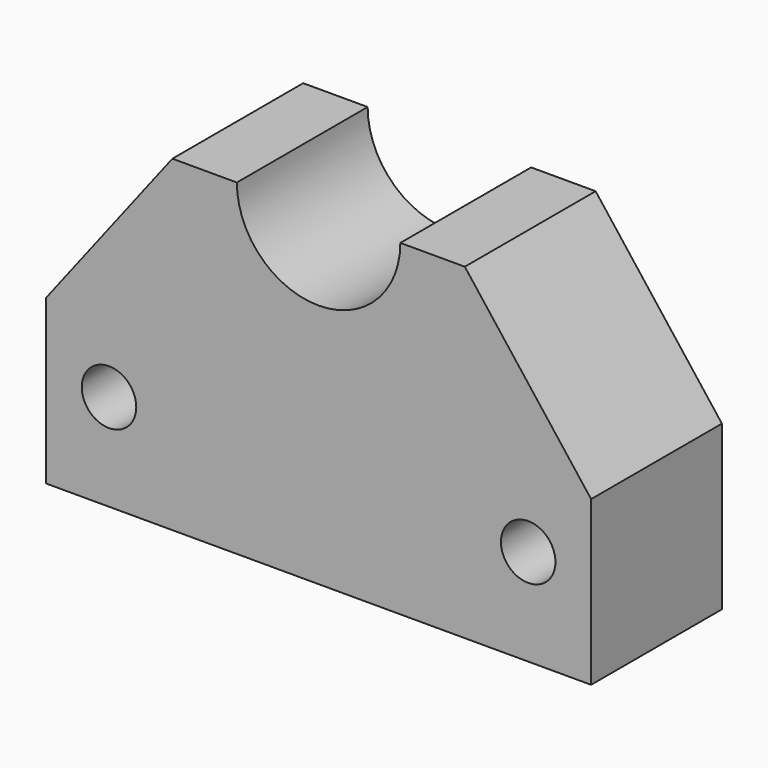
from build123d import *

# Parameters (mm, degrees)
F0_R     = 3.175
F1_DEPTH = 9.525


with BuildPart() as f1:
    # F0 (on Front) → F1 (new body, symmetric)
    with BuildSketch(Plane.XZ):
        with BuildLine():
            Line((-9.525, 19.05), (-17.036222, 19.05))
            Line((-17.036222, 19.05), (-31.75, 0))
            Line((-31.75, 0), (-31.75, -19.05))
            Line((-31.75, -19.05), (31.75, -19.05))
            Line((31.75, -19.05), (31.75, 0))
            Line((31.75, 0), (17.036222, 19.05))
            Line((17.036222, 19.05), (9.525, 19.05))
            ThreePointArc((9.525, 19.05), (0, 9.525), (-9.525, 19.05))
        make_face()
        with Locations((-24.418587, -7.808267)):
            Circle(F0_R, mode=Mode.SUBTRACT)
        with Locations((24.418587, -7.808267)):
            Circle(F0_R, mode=Mode.SUBTRACT)
    extrude(amount=F1_DEPTH, both=True)


with BuildPart() as f2_1:
    # F2: copy of F1
    add(f1.part)


solid = f1.part
